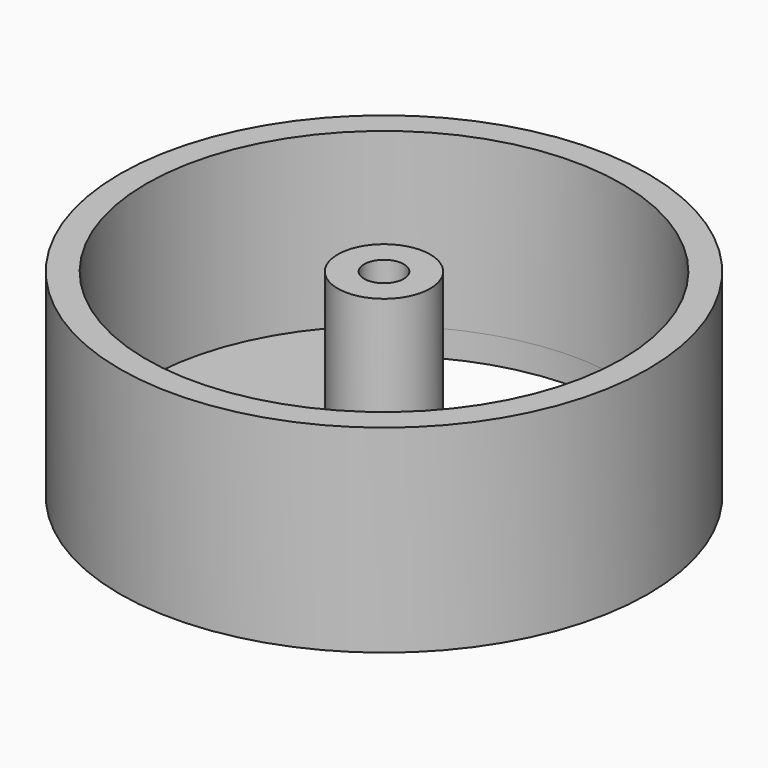
from build123d import *

# Parameters (mm, degrees)
F0_R     = 20
F1_DEPTH = 15
F2_R     = 18
F3_DEPTH = 13
F4_R     = 3.5
F4_R_2   = 1.5
F5_DEPTH = 13
F7_DEPTH = 100


with BuildPart() as f1:
    # F0 (on Top) → F1 (new body)
    with BuildSketch(Plane.XY):
        Circle(F0_R)
    extrude(amount=F1_DEPTH)

    # F2 (on face) → F3 (cut)
    with BuildSketch(Plane.XY.offset(15)):
        Circle(F2_R)
    extrude(amount=-F3_DEPTH, mode=Mode.SUBTRACT)

    # F4 (on face) → F5 (join)
    with BuildSketch(Plane.XY.offset(2)):
        Circle(F4_R)
        Circle(F4_R_2, mode=Mode.SUBTRACT)
    extrude(amount=F5_DEPTH)

    # F6 (on face) → F7 (cut)
    with BuildSketch(Plane.XY.offset(2)):
        with BuildLine():
            Line((-9.4231661407, -15.3363600598), (-3.0310889132, -1.75))
            Line((-3.0310889132, -1.75), (-17.9932604837, -0.4925212321))
            ThreePointArc((-17.9932604837, -0.4925212321), (-15.5884572681, -9), (-9.4231661407, -15.3363600598))
        make_face()
        with BuildLine():
            Line((-8.570094343, 15.8288812919), (0, 3.5))
            Line((0, 3.5), (8.570094343, 15.8288812919))
            ThreePointArc((8.570094343, 15.8288812919), (0, 18), (-8.570094343, 15.8288812919))
        make_face()
        with BuildLine():
            Line((17.9932604837, -0.4925212321), (3.0310889132, -1.75))
            Line((3.0310889132, -1.75), (9.4231661407, -15.3363600598))
            ThreePointArc((9.4231661407, -15.3363600598), (15.5884572681, -9), (17.9932604837, -0.4925212321))
        make_face()
    extrude(amount=-F7_DEPTH, mode=Mode.SUBTRACT)


solid = f1.part
